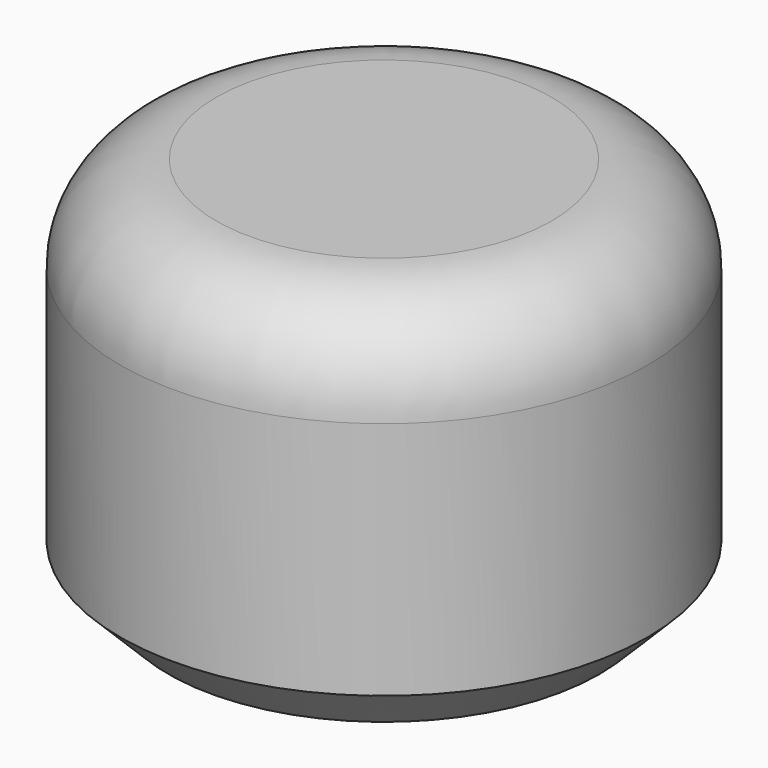
from build123d import *

# Parameters (mm, degrees)
F0_R     = 5.5
F0_R_2   = 2.5
F1_DEPTH = 8
F2_R     = 2
F3_DEPTH = 6
F4_SIZE  = 1


with BuildPart() as f1:
    # F0 (on Top) → F1 (new body)
    with BuildSketch(Plane.XY):
        Circle(F0_R)
        Circle(F0_R_2, mode=Mode.SUBTRACT)
        Circle(F0_R_2)
    extrude(amount=F1_DEPTH)

    # F2
    f2_edges = [f1.edges().sort_by_distance(p)[0] for p in [
        (-5.5, 0, 8),
    ]]
    fillet(f2_edges, radius=F2_R)

    # F0 (on Top) → F3 (cut)
    with BuildSketch(Plane.XY):
        Circle(F0_R_2)
    extrude(amount=F3_DEPTH, mode=Mode.SUBTRACT)

    # F4
    f4_edges = [f1.edges().sort_by_distance(p)[0] for p in [
        (-5.5, 0, 0),
    ]]
    chamfer(f4_edges, length=F4_SIZE)


solid = f1.part
